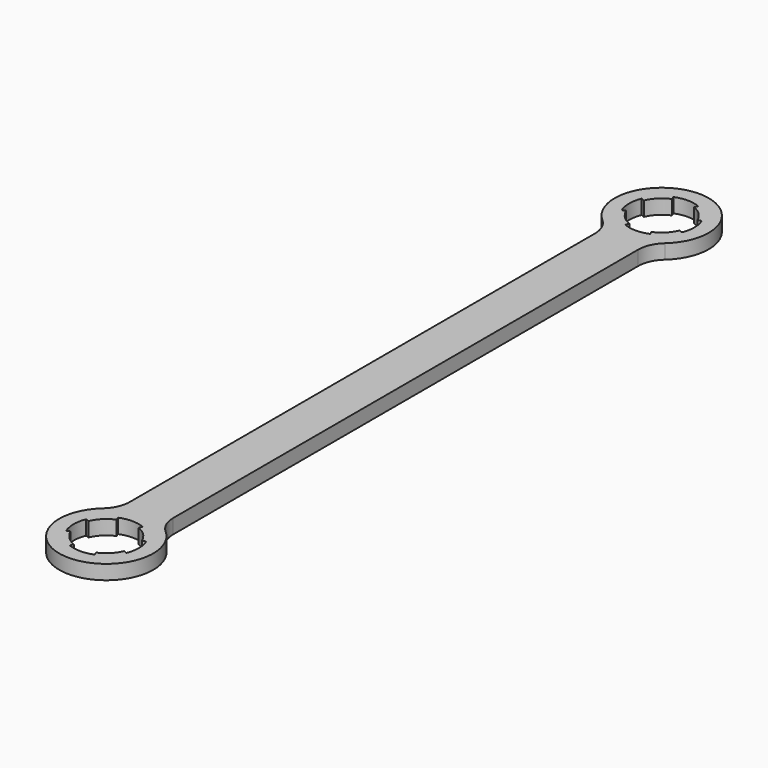
from build123d import *

# Parameters (mm, degrees)
F0_R     = 6.35
F1_DEPTH = 3.175
F2_R     = 6.35
F4_DEPTH = 3.175
F5_COUNT = 4
F6_COUNT = 4


with BuildPart() as f1:
    # F0 (on Top) → F1 (new body)
    with BuildSketch(Plane.XY):
        with BuildLine():
            Line((4.7625, -143.2460284405), (4.7625, -9.1539715595))
            ThreePointArc((4.7625, -9.1539715595), (0, 10.31875), (-4.7625, -9.1539715595))
            Line((-4.7625, -9.1539715595), (-4.7625, -143.2460284405))
            ThreePointArc((-4.7625, -143.2460284405), (0, -162.71875), (4.7625, -143.2460284405))
        make_face()
        with Locations((0, -152.4)):
            Circle(F0_R, mode=Mode.SUBTRACT)
        Circle(F0_R, mode=Mode.SUBTRACT)
    extrude(amount=F1_DEPTH)

    # F2
    f2_edges = [f1.edges().sort_by_distance(p)[0] for p in [
        (4.7625, -9.153972, 1.5875),
        (-4.7625, -9.153972, 1.5875),
        (-4.7625, -143.246028, 1.5875),
        (4.7625, -143.246028, 1.5875),
    ]]
    fillet(f2_edges, radius=F2_R)

    # F3 (on face) → F4 (cut, through all)
    with BuildSketch(Plane.XY.offset(3.175)):
        with BuildLine():
            ThreePointArc((-5.8666350314, -154.8300397955), (-6.35, -152.4), (-5.8666350314, -149.9699602045))
            Line((-5.8666350314, -149.9699602045), (-6.5999644104, -149.66620523))
            ThreePointArc((-6.5999644104, -149.66620523), (-7.14375, -152.4), (-6.5999644104, -155.13379477))
            Line((-6.5999644104, -155.13379477), (-5.8666350314, -154.8300397955))
        make_face()
        with BuildLine():
            ThreePointArc((-5.8666350314, -2.4300397955), (-6.35, 0), (-5.8666350314, 2.4300397955))
            Line((-5.8666350314, 2.4300397955), (-6.5999644104, 2.73379477))
            ThreePointArc((-6.5999644104, 2.73379477), (-7.14375, 0), (-6.5999644104, -2.73379477))
            Line((-6.5999644104, -2.73379477), (-5.8666350314, -2.4300397955))
        make_face()
    f4 = extrude(amount=-F4_DEPTH, mode=Mode.SUBTRACT)

    # F5: F4 ×4 about axis
    f5_axis = Axis((0, -152.4, 3.175), (0, 0, 1))
    for i in range(1, F5_COUNT):
        add(f4.solids().sort_by_distance((-6.2333, -154.981917, 1.5875))[0].rotate(f5_axis, i * 360 / F5_COUNT), mode=Mode.SUBTRACT)

    # F6: F4 ×4 about axis
    f6_axis = Axis((0, 0, 3.175), (0, 0, 1))
    for i in range(1, F6_COUNT):
        add(f4.solids().sort_by_distance((-6.2333, 2.581917, 1.5875))[0].rotate(f6_axis, i * 360 / F6_COUNT), mode=Mode.SUBTRACT)


solid = f1.part
